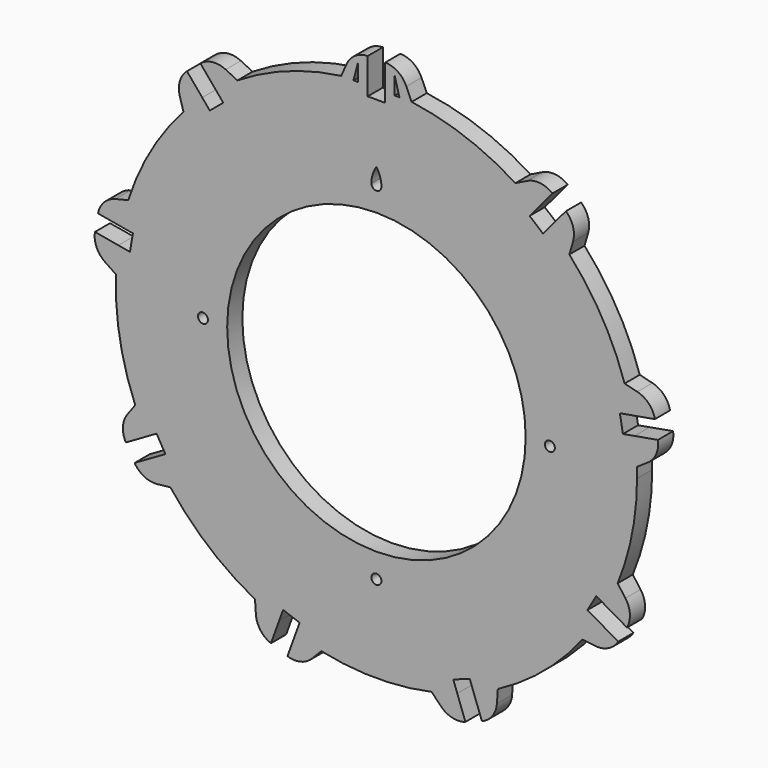
from build123d import *

# Parameters (mm, degrees)
F0_R     = 1.3335
F0_R_2   = 40.005
F1_DEPTH = 5.08
F3_DEPTH = 5.08


with BuildPart() as f1:
    # F0 (on Front) → F1 (new body)
    with BuildSketch(Plane.XZ):
        with BuildLine():
            ThreePointArc((64.6559292996, -26.4316724103), (68.5391828138, -13.4685900974), (69.85, 0))
            ThreePointArc((69.85, 0), (69.8367147463, 1.3622677557), (69.796864039, 2.7240173131))
            ThreePointArc((69.796864039, 2.7240173131), (69.5676178372, 6.2744759504), (69.1578829213, 9.8086558631))
            Line((69.1578829213, 9.8086558631), (66.0700433255, 9.2641864302))
            Line((66.0700433255, 9.2641864302), (65.2540705387, 13.8917980616))
            Line((65.2540705387, 13.8917980616), (68.3419101345, 14.4362674945))
            ThreePointArc((68.3419101345, 14.4362674945), (67.5181742912, 17.8974478736), (66.5192668833, 21.3121944743))
            ThreePointArc((66.5192668833, 21.3121944743), (60.4918744543, 34.925), (51.7165352668, 46.9512777249))
            ThreePointArc((51.7165352668, 46.9512777249), (49.258731667, 49.5237302165), (46.6731294533, 51.9676965724))
            Line((46.6731294533, 51.9676965724), (44.657685295, 49.565783756))
            Line((44.657685295, 49.565783756), (41.0580424567, 52.5862427339))
            Line((41.0580424567, 52.5862427339), (43.0734866151, 54.9881555503))
            ThreePointArc((43.0734866151, 54.9881555503), (40.2176644871, 57.1100863526), (37.257500213, 59.0838487057))
            ThreePointArc((37.257500213, 59.0838487057), (23.8901070113, 65.6375295619), (9.4374648779, 69.2095134839))
            ThreePointArc((9.4374648779, 69.2095134839), (5.9011375, 69.6002807193), (2.3495, 69.8104744988))
            Line((2.3495, 69.8104744988), (2.3495, 66.675))
            Line((2.3495, 66.675), (-2.3495, 66.675))
            Line((-2.3495, 66.675), (-2.3495, 69.8104744988))
            ThreePointArc((-2.3495, 69.8104744988), (-5.9011375, 69.6002807193), (-9.4374648779, 69.2095134839))
            ThreePointArc((-9.4374648779, 69.2095134839), (-23.8901070113, 65.6375295619), (-37.257500213, 59.0838487057))
            ThreePointArc((-37.257500213, 59.0838487057), (-40.2176644871, 57.1100863526), (-43.0734866151, 54.9881555503))
            Line((-43.0734866151, 54.9881555503), (-41.0580424567, 52.5862427339))
            Line((-41.0580424567, 52.5862427339), (-44.657685295, 49.565783756))
            Line((-44.657685295, 49.565783756), (-46.6731294533, 51.9676965724))
            ThreePointArc((-46.6731294533, 51.9676965724), (-49.258731667, 49.5237302165), (-51.7165352668, 46.9512777249))
            ThreePointArc((-51.7165352668, 46.9512777249), (-60.4918744543, 34.925), (-66.5192668833, 21.3121944743))
            ThreePointArc((-66.5192668833, 21.3121944743), (-67.5181742912, 17.8974478736), (-68.3419101345, 14.4362674945))
            Line((-68.3419101345, 14.4362674945), (-65.2540705387, 13.8917980616))
            Line((-65.2540705387, 13.8917980616), (-66.0700433255, 9.2641864302))
            Line((-66.0700433255, 9.2641864302), (-69.1578829213, 9.8086558631))
            ThreePointArc((-69.1578829213, 9.8086558631), (-69.5676178372, 6.2744759504), (-69.796864039, 2.7240173131))
            ThreePointArc((-69.796864039, 2.7240173131), (-68.7888215479, -12.12932521), (-64.6559292996, -26.4316724103))
            ThreePointArc((-64.6559292996, -26.4316724103), (-63.2261799634, -29.6896053734), (-61.6323943662, -32.8705105632))
            Line((-61.6323943662, -32.8705105632), (-58.9169937973, -31.3027733138))
            Line((-58.9169937973, -31.3027733138), (-56.5674937973, -35.3722266862))
            Line((-56.5674937973, -35.3722266862), (-59.2828943662, -36.9399639356))
            ThreePointArc((-59.2828943662, -36.9399639356), (-57.3250424634, -39.9106753459), (-55.2184644216, -42.7778410736))
            ThreePointArc((-55.2184644216, -42.7778410736), (-44.8987145366, -53.5082043519), (-32.539363826, -61.8078660188))
            ThreePointArc((-32.539363826, -61.8078660188), (-29.3499533501, -63.384562303), (-26.0843963063, -64.7968114134))
            Line((-26.0843963063, -64.7968114134), (-25.0120008688, -61.8504291642))
            Line((-25.0120008688, -61.8504291642), (-20.5963852437, -63.4575818176))
            Line((-20.5963852437, -63.4575818176), (-21.6687806812, -66.4039640668))
            ThreePointArc((-21.6687806812, -66.4039640668), (-18.2594426241, -67.4211780901), (-14.8027316165, -68.2634721992))
            ThreePointArc((-14.8027316165, -68.2634721992), (0, -69.85), (14.8027316165, -68.2634721992))
            ThreePointArc((14.8027316165, -68.2634721992), (18.2594426241, -67.4211780901), (21.6687806812, -66.4039640668))
            Line((21.6687806812, -66.4039640668), (20.5963852437, -63.4575818176))
            Line((20.5963852437, -63.4575818176), (25.0120008688, -61.8504291642))
            Line((25.0120008688, -61.8504291642), (26.0843963063, -64.7968114134))
            ThreePointArc((26.0843963063, -64.7968114134), (29.3499533501, -63.384562303), (32.539363826, -61.8078660188))
            ThreePointArc((32.539363826, -61.8078660188), (44.8987145366, -53.5082043519), (55.2184644216, -42.7778410736))
            ThreePointArc((55.2184644216, -42.7778410736), (57.3250424634, -39.9106753459), (59.2828943662, -36.9399639356))
            Line((59.2828943662, -36.9399639356), (56.5674937973, -35.3722266862))
            Line((56.5674937973, -35.3722266862), (58.9169937973, -31.3027733138))
            Line((58.9169937973, -31.3027733138), (61.6323943662, -32.8705105632))
            ThreePointArc((61.6323943662, -32.8705105632), (63.2261799634, -29.6896053734), (64.6559292996, -26.4316724103))
        make_face()
        with Locations((-46.4947, 0)):
            Circle(F0_R, mode=Mode.SUBTRACT)
        with Locations((0, -46.4947)):
            Circle(F0_R, mode=Mode.SUBTRACT)
        Circle(F0_R_2, mode=Mode.SUBTRACT)
        with Locations((46.4947, 0)):
            Circle(F0_R, mode=Mode.SUBTRACT)
        with BuildLine():
            ThreePointArc((1.3333628788, 46.4755771511), (0, 45.1612), (-1.3333628788, 46.4755771511))
            ThreePointArc((-1.3333628788, 46.4755771511), (-1.0083284803, 48.7431296807), (0, 50.8))
            ThreePointArc((0, 50.8), (1.0083284803, 48.7431296807), (1.3333628788, 46.4755771511))
        make_face(mode=Mode.SUBTRACT)
        with BuildLine():
            ThreePointArc((-43.0734866151, 54.9881555503), (-40.2176644871, 57.1100863526), (-37.257500213, 59.0838487057))
            Line((-37.257500213, 59.0838487057), (-40.4029688253, 60.6296034594))
            ThreePointArc((-40.4029688253, 60.6296034594), (-43.9001960603, 61.242248794), (-47.1796486938, 59.8816889594))
            Line((-47.1796486938, 59.8816889594), (-43.0734866151, 54.9881555503))
        make_face()
        with BuildLine():
            ThreePointArc((-51.7165352668, 46.9512777249), (-49.258731667, 49.5237302165), (-46.6731294533, 51.9676965724))
            Line((-46.6731294533, 51.9676965724), (-50.779291532, 56.8612299815))
            ThreePointArc((-50.779291532, 56.8612299815), (-52.6886523792, 53.8678583382), (-52.69260164, 50.3173770972))
            Line((-52.69260164, 50.3173770972), (-51.7165352668, 46.9512777249))
        make_face()
        with BuildLine():
            ThreePointArc((-9.4374648779, 69.2095134839), (-5.9011375, 69.6002807193), (-2.3495, 69.8104744988))
            Line((-2.3495, 69.8104744988), (-2.3495, 76.1985286816))
            ThreePointArc((-2.3495, 76.1985286816), (-5.7362574703, 75.1327864631), (-8.0214881298, 72.415498574))
            Line((-8.0214881298, 72.415498574), (-9.4374648779, 69.2095134839))
        make_face()
        with BuildLine():
            ThreePointArc((2.3495, 69.8104744988), (5.9011375, 69.6002807193), (9.4374648779, 69.2095134839))
            Line((9.4374648779, 69.2095134839), (8.0214881298, 72.415498574))
            ThreePointArc((8.0214881298, 72.415498574), (5.7362574703, 75.1327864631), (2.3495, 76.1985286816))
            Line((2.3495, 76.1985286816), (2.3495, 69.8104744988))
        make_face()
        with BuildLine():
            ThreePointArc((37.257500213, 59.0838487057), (40.2176644871, 57.1100863526), (43.0734866151, 54.9881555503))
            Line((43.0734866151, 54.9881555503), (47.1796486938, 59.8816889594))
            ThreePointArc((47.1796486938, 59.8816889594), (43.9001960603, 61.242248794), (40.4029688253, 60.6296034594))
            Line((40.4029688253, 60.6296034594), (37.257500213, 59.0838487057))
        make_face()
        with BuildLine():
            ThreePointArc((46.6731294533, 51.9676965724), (49.258731667, 49.5237302165), (51.7165352668, 46.9512777249))
            Line((51.7165352668, 46.9512777249), (52.69260164, 50.3173770972))
            ThreePointArc((52.69260164, 50.3173770972), (52.6886523792, 53.8678583382), (50.779291532, 56.8612299815))
            Line((50.779291532, 56.8612299815), (46.6731294533, 51.9676965724))
        make_face()
        with BuildLine():
            ThreePointArc((66.5192668833, 21.3121944743), (67.5181742912, 17.8974478736), (68.3419101345, 14.4362674945))
            Line((68.3419101345, 14.4362674945), (74.6329154204, 15.5455414622))
            ThreePointArc((74.6329154204, 15.5455414622), (72.9952599579, 18.6957822824), (69.922427638, 20.4744430631))
            Line((69.922427638, 20.4744430631), (66.5192668833, 21.3121944743))
        make_face()
        with BuildLine():
            ThreePointArc((69.1578829213, 9.8086558631), (69.5676178372, 6.2744759504), (69.796864039, 2.7240173131))
            Line((69.796864039, 2.7240173131), (72.7082612299, 4.6751956613))
            ThreePointArc((72.7082612299, 4.6751956613), (74.9874412706, 7.3975606223), (75.4488882072, 10.9179298308))
            Line((75.4488882072, 10.9179298308), (69.1578829213, 9.8086558631))
        make_face()
        with BuildLine():
            Line((66.7244054577, -29.2609367904), (64.6559292996, -26.4316724103))
            ThreePointArc((64.6559292996, -26.4316724103), (63.2261799634, -29.6896053734), (61.6323943662, -32.8705105632))
            Line((61.6323943662, -32.8705105632), (67.1646115693, -36.0645376546))
            ThreePointArc((67.1646115693, -36.0645376546), (67.9350304693, -32.5986485396), (66.7244054577, -29.2609367904))
        make_face()
        with BuildLine():
            Line((64.8151115693, -40.133991027), (59.2828943662, -36.9399639356))
            ThreePointArc((59.2828943662, -36.9399639356), (57.3250424634, -39.9106753459), (55.2184644216, -42.7778410736))
            Line((55.2184644216, -42.7778410736), (58.7029173279, -43.1545617836))
            ThreePointArc((58.7029173279, -43.1545617836), (62.198772999, -42.5341379235), (64.8151115693, -40.133991027))
        make_face()
        with BuildLine():
            Line((23.8536238884, -72.4067714436), (21.6687806812, -66.4039640668))
            ThreePointArc((21.6687806812, -66.4039640668), (18.2594426241, -67.4211780901), (14.8027316165, -68.2634721992))
            Line((14.8027316165, -68.2634721992), (17.229825998, -70.7918201604))
            ThreePointArc((17.229825998, -70.7918201604), (20.3066075788, -72.5636406206), (23.8536238884, -72.4067714436))
        make_face()
        with BuildLine():
            Line((32.3052924046, -65.3047991207), (32.539363826, -61.8078660188))
            ThreePointArc((32.539363826, -61.8078660188), (29.3499533501, -63.384562303), (26.0843963063, -64.7968114134))
            Line((26.0843963063, -64.7968114134), (28.2692395134, -70.7996187901))
            ThreePointArc((28.2692395134, -70.7996187901), (31.0872452104, -68.6398094163), (32.3052924046, -65.3047991207))
        make_face()
        with BuildLine():
            Line((-28.2692395134, -70.7996187901), (-26.0843963063, -64.7968114134))
            ThreePointArc((-26.0843963063, -64.7968114134), (-29.3499533501, -63.384562303), (-32.539363826, -61.8078660188))
            Line((-32.539363826, -61.8078660188), (-32.3052924046, -65.3047991207))
            ThreePointArc((-32.3052924046, -65.3047991207), (-31.0872452104, -68.6398094163), (-28.2692395134, -70.7996187901))
        make_face()
        with BuildLine():
            Line((-17.229825998, -70.7918201604), (-14.8027316165, -68.2634721992))
            ThreePointArc((-14.8027316165, -68.2634721992), (-18.2594426241, -67.4211780901), (-21.6687806812, -66.4039640668))
            Line((-21.6687806812, -66.4039640668), (-23.8536238884, -72.4067714436))
            ThreePointArc((-23.8536238884, -72.4067714436), (-20.3066075788, -72.5636406206), (-17.229825998, -70.7918201604))
        make_face()
        with BuildLine():
            Line((-58.7029173279, -43.1545617836), (-55.2184644216, -42.7778410736))
            ThreePointArc((-55.2184644216, -42.7778410736), (-57.3250424634, -39.9106753459), (-59.2828943662, -36.9399639356))
            Line((-59.2828943662, -36.9399639356), (-64.8151115693, -40.133991027))
            ThreePointArc((-64.8151115693, -40.133991027), (-62.198772999, -42.5341379235), (-58.7029173279, -43.1545617836))
        make_face()
        with BuildLine():
            Line((-67.1646115693, -36.0645376546), (-61.6323943662, -32.8705105632))
            ThreePointArc((-61.6323943662, -32.8705105632), (-63.2261799634, -29.6896053734), (-64.6559292996, -26.4316724103))
            Line((-64.6559292996, -26.4316724103), (-66.7244054577, -29.2609367904))
            ThreePointArc((-66.7244054577, -29.2609367904), (-67.9350304693, -32.5986485396), (-67.1646115693, -36.0645376546))
        make_face()
        with BuildLine():
            Line((-72.7082612299, 4.6751956613), (-69.796864039, 2.7240173131))
            ThreePointArc((-69.796864039, 2.7240173131), (-69.5676178372, 6.2744759504), (-69.1578829213, 9.8086558631))
            Line((-69.1578829213, 9.8086558631), (-75.4488882072, 10.9179298308))
            ThreePointArc((-75.4488882072, 10.9179298308), (-74.9874412706, 7.3975606223), (-72.7082612299, 4.6751956613))
        make_face()
        with BuildLine():
            ThreePointArc((-68.3419101345, 14.4362674945), (-67.5181742912, 17.8974478736), (-66.5192668833, 21.3121944743))
            Line((-66.5192668833, 21.3121944743), (-69.922427638, 20.4744430631))
            ThreePointArc((-69.922427638, 20.4744430631), (-72.9952599579, 18.6957822824), (-74.6329154204, 15.5455414622))
            Line((-74.6329154204, 15.5455414622), (-68.3419101345, 14.4362674945))
        make_face()
    extrude(amount=F1_DEPTH)

    # F2 (on face) → F3 (cut, through all)
    with BuildSketch(Plane.XZ.offset(5.08)):
        Polygon((-4.8895, 69.2095134839), (-4.8895, 73.9583384527), (-6.1595, 69.2095134839), align=None)
        Polygon((6.1595, 69.2095134839), (4.8895, 73.9583384527), (4.8895, 69.2095134839), align=None)
    extrude(amount=-F3_DEPTH, mode=Mode.SUBTRACT)


solid = f1.part
